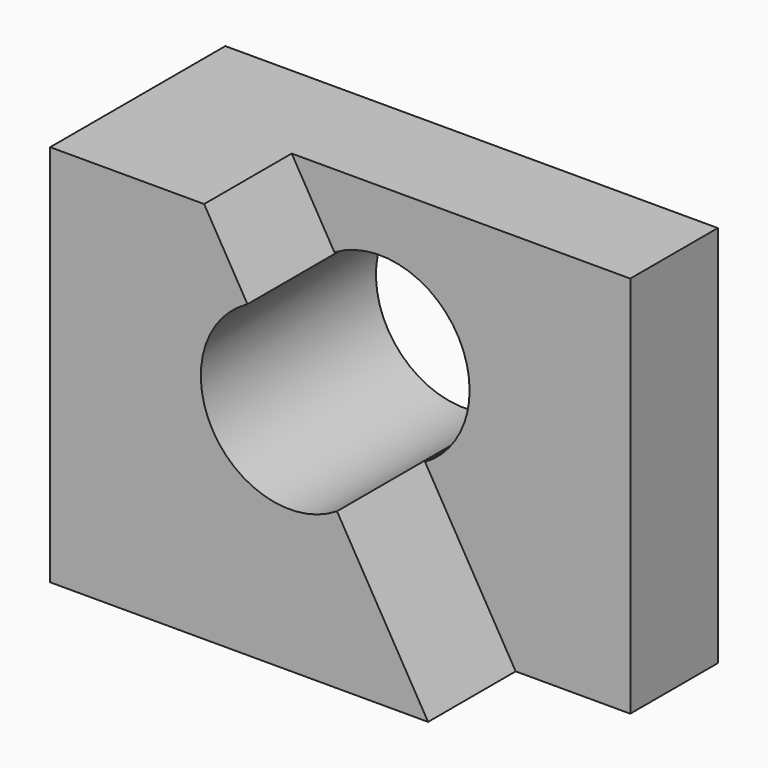
from build123d import *

# Parameters (mm, degrees)
F0_W     = 57.15
F0_H     = 44.45
F1_DEPTH = 25.4
F3_DEPTH = 12.7
F5_DEPTH = 12.701
F7_DEPTH = 25.401


with BuildPart() as f1:
    # F0 (on Front) → F1 (new body)
    with BuildSketch(Plane.XZ):
        with Locations((28.575, 22.225)):
            Rectangle(F0_W, F0_H)
    extrude(amount=F1_DEPTH)

    # F2 (on face) → F3 (cut)
    with BuildSketch(Plane.XZ.offset(25.4)):
        Polygon((57.15, 44.45), (17.8654808551, 44.45), (43.8516363502, 0), (57.15, 0), align=None)
    extrude(amount=-F3_DEPTH, mode=Mode.SUBTRACT)

    # F4 (on face) → F5 (cut, through all)
    with BuildSketch(Plane.XZ.offset(12.7)):
        with BuildLine():
            ThreePointArc((33.3435072178, 17.9744302701), (37.1242051851, 21.7860579667), (38.5066656507, 26.9736379303))
            ThreePointArc((38.5066656507, 26.9736379303), (33.2700116001, 36.0154114789), (22.8213560552, 35.9728455904))
            Line((22.8213560552, 35.9728455904), (33.3435072178, 17.9744302701))
        make_face()
    extrude(amount=-F5_DEPTH, mode=Mode.SUBTRACT)

    # F6 (on face) → F7 (cut, through all)
    with BuildSketch(Plane.XZ.offset(25.4)):
        with BuildLine():
            Line((33.2805792258, 18.0820702495), (22.8900132849, 35.8554055997))
            ThreePointArc((22.8900132849, 35.8554055997), (18.8883674995, 21.5920715416), (33.2805792258, 18.0820702495))
        make_face()
    extrude(amount=-F7_DEPTH, mode=Mode.SUBTRACT)


solid = f1.part
